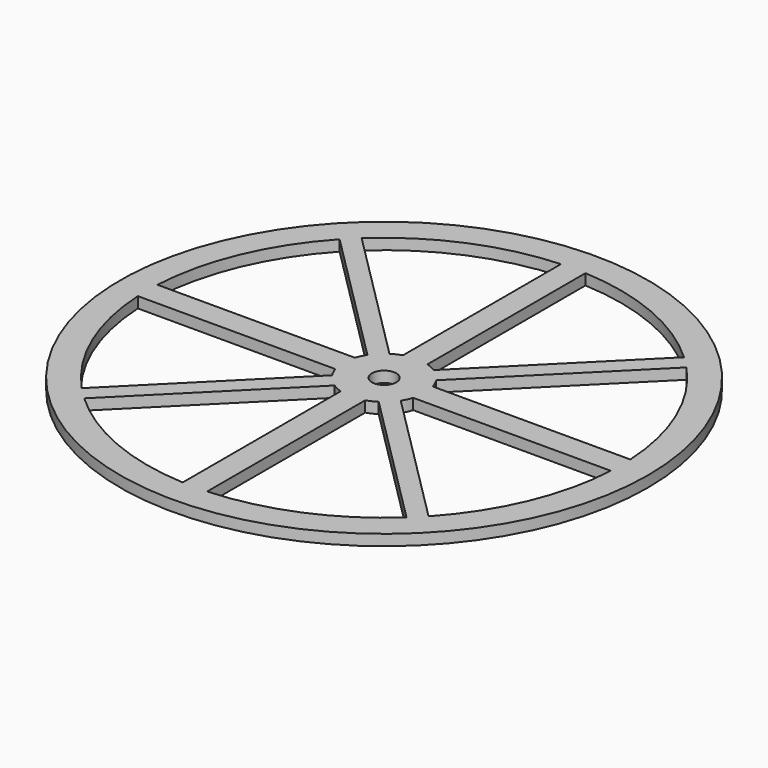
from build123d import *

# Parameters (mm, degrees)
F0_R     = 48.5
F0_R_2   = 2.25
F1_DEPTH = 2


with BuildPart() as f1:
    # F0 (on Top) → F1 (new body)
    with BuildSketch(Plane.XY):
        Circle(F0_R)
        with BuildLine():
            Line((-29.613565, -31.863565), (-4.057603, -6.307603))
            ThreePointArc((-4.057603, -6.307603), (-3.182105, -6.791481), (-2.25, -7.154544))
            Line((-2.25, -7.154544), (-2.25, -43.441771))
            ThreePointArc((-2.25, -43.441771), (-16.950971, -40.061385), (-29.613565, -31.863565))
        make_face(mode=Mode.SUBTRACT)
        with BuildLine():
            ThreePointArc((-31.863565, -29.613565), (-40.061385, -16.950971), (-43.441771, -2.25))
            Line((-43.441771, -2.25), (-7.154544, -2.25))
            ThreePointArc((-7.154544, -2.25), (-6.791481, -3.182105), (-6.307603, -4.057603))
            Line((-6.307603, -4.057603), (-31.863565, -29.613565))
        make_face(mode=Mode.SUBTRACT)
        with BuildLine():
            ThreePointArc((-2.25, -4.465143), (-2.238394, -4.470972), (-2.226772, -4.476772))
            Line((-2.226772, -4.476772), (-2.25, -4.5))
            Line((-2.25, -4.5), (-2.25, -4.465143))
        make_face(mode=Mode.SUBTRACT)
        with BuildLine():
            Line((-4.5, -2.25), (-4.476772, -2.226772))
            ThreePointArc((-4.476772, -2.226772), (-4.470972, -2.238394), (-4.465143, -2.25))
            Line((-4.465143, -2.25), (-4.5, -2.25))
        make_face(mode=Mode.SUBTRACT)
        with BuildLine():
            Line((2.25, -43.441771), (2.25, -7.154544))
            ThreePointArc((2.25, -7.154544), (3.182105, -6.791481), (4.057603, -6.307603))
            Line((4.057603, -6.307603), (29.613565, -31.863565))
            ThreePointArc((29.613565, -31.863565), (16.950971, -40.061385), (2.25, -43.441771))
        make_face(mode=Mode.SUBTRACT)
        with BuildLine():
            ThreePointArc((4.465143, -2.25), (4.470972, -2.238394), (4.476772, -2.226772))
            Line((4.476772, -2.226772), (4.5, -2.25))
            Line((4.5, -2.25), (4.465143, -2.25))
        make_face(mode=Mode.SUBTRACT)
        with BuildLine():
            Line((31.863565, -29.613565), (6.307603, -4.057603))
            ThreePointArc((6.307603, -4.057603), (6.791481, -3.182105), (7.154544, -2.25))
            Line((7.154544, -2.25), (43.441771, -2.25))
            ThreePointArc((43.441771, -2.25), (40.061385, -16.950971), (31.863565, -29.613565))
        make_face(mode=Mode.SUBTRACT)
        with BuildLine():
            Line((-31.863565, 29.613565), (-6.307603, 4.057603))
            ThreePointArc((-6.307603, 4.057603), (-6.791481, 3.182105), (-7.154544, 2.25))
            Line((-7.154544, 2.25), (-43.441771, 2.25))
            ThreePointArc((-43.441771, 2.25), (-40.061385, 16.950971), (-31.863565, 29.613565))
        make_face(mode=Mode.SUBTRACT)
        with BuildLine():
            Line((-4.5, 2.25), (-4.465143, 2.25))
            ThreePointArc((-4.465143, 2.25), (-4.470972, 2.238394), (-4.476772, 2.226772))
            Line((-4.476772, 2.226772), (-4.5, 2.25))
        make_face(mode=Mode.SUBTRACT)
        with BuildLine():
            Line((-2.25, 4.5), (-2.226772, 4.476772))
            ThreePointArc((-2.226772, 4.476772), (-2.238394, 4.470972), (-2.25, 4.465143))
            Line((-2.25, 4.465143), (-2.25, 4.5))
        make_face(mode=Mode.SUBTRACT)
        with BuildLine():
            Line((-2.25, 43.441771), (-2.25, 7.154544))
            ThreePointArc((-2.25, 7.154544), (-3.182105, 6.791481), (-4.057603, 6.307603))
            Line((-4.057603, 6.307603), (-29.613565, 31.863565))
            ThreePointArc((-29.613565, 31.863565), (-16.950971, 40.061385), (-2.25, 43.441771))
        make_face(mode=Mode.SUBTRACT)
        Circle(F0_R_2, mode=Mode.SUBTRACT)
        with BuildLine():
            Line((4.5, 2.25), (4.476772, 2.226772))
            ThreePointArc((4.476772, 2.226772), (4.470972, 2.238394), (4.465143, 2.25))
            Line((4.465143, 2.25), (4.5, 2.25))
        make_face(mode=Mode.SUBTRACT)
        with BuildLine():
            Line((2.25, 4.5), (2.25, 4.465143))
            ThreePointArc((2.25, 4.465143), (2.238394, 4.470972), (2.226772, 4.476772))
            Line((2.226772, 4.476772), (2.25, 4.5))
        make_face(mode=Mode.SUBTRACT)
        with BuildLine():
            Line((43.441771, 2.25), (7.154544, 2.25))
            ThreePointArc((7.154544, 2.25), (6.791481, 3.182105), (6.307603, 4.057603))
            Line((6.307603, 4.057603), (31.863565, 29.613565))
            ThreePointArc((31.863565, 29.613565), (40.061385, 16.950971), (43.441771, 2.25))
        make_face(mode=Mode.SUBTRACT)
        with BuildLine():
            Line((29.613565, 31.863565), (4.057603, 6.307603))
            ThreePointArc((4.057603, 6.307603), (3.182105, 6.791481), (2.25, 7.154544))
            Line((2.25, 7.154544), (2.25, 43.441771))
            ThreePointArc((2.25, 43.441771), (16.950971, 40.061385), (29.613565, 31.863565))
        make_face(mode=Mode.SUBTRACT)
    extrude(amount=F1_DEPTH)


solid = f1.part
